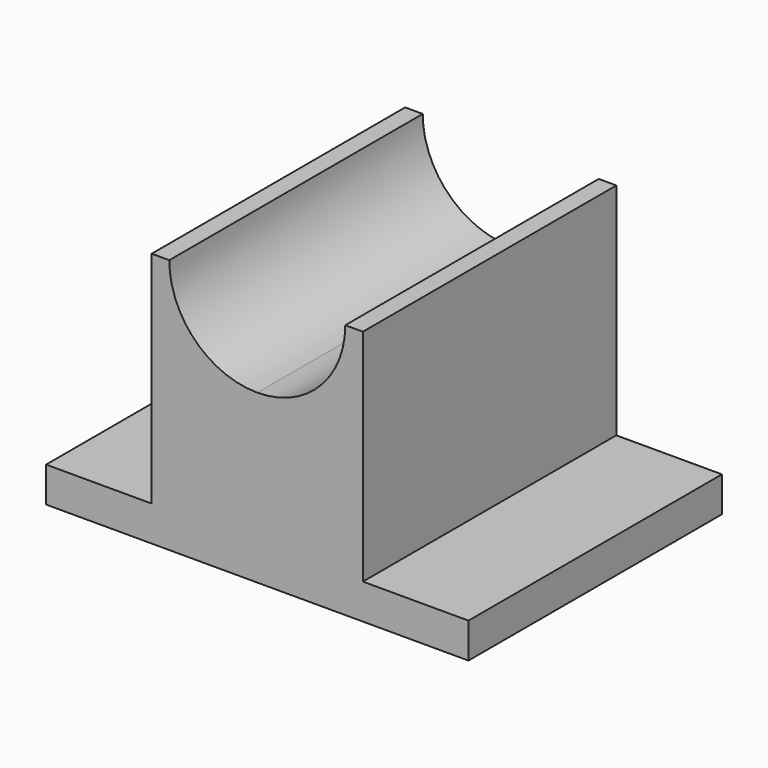
from build123d import *

# Parameters (mm, degrees)
F1_DEPTH = 114.3


with BuildPart() as f1:
    # F0 (on Front) → F1 (new body)
    with BuildSketch(Plane.XZ):
        with BuildLine():
            Line((-76.2, -14.482965), (-76.2, -27.182965))
            Line((-76.2, -27.182965), (0, -27.182965))
            Line((0, -27.182965), (76.2, -27.182965))
            Line((76.2, -27.182965), (76.2, -14.482965))
            Line((76.2, -14.482965), (38.1, -14.482965))
            Line((38.1, -14.482965), (38.1, 64.892035))
            Line((38.1, 64.892035), (31.75, 64.892035))
            ThreePointArc((31.75, 64.892035), (22.45064, 42.441395), (0, 33.142035))
            ThreePointArc((0, 33.142035), (-22.45064, 42.441395), (-31.75, 64.892035))
            Line((-31.75, 64.892035), (-38.1, 64.892035))
            Line((-38.1, 64.892035), (-38.1, -14.482965))
            Line((-38.1, -14.482965), (-76.2, -14.482965))
        make_face()
    extrude(amount=F1_DEPTH)


solid = f1.part
